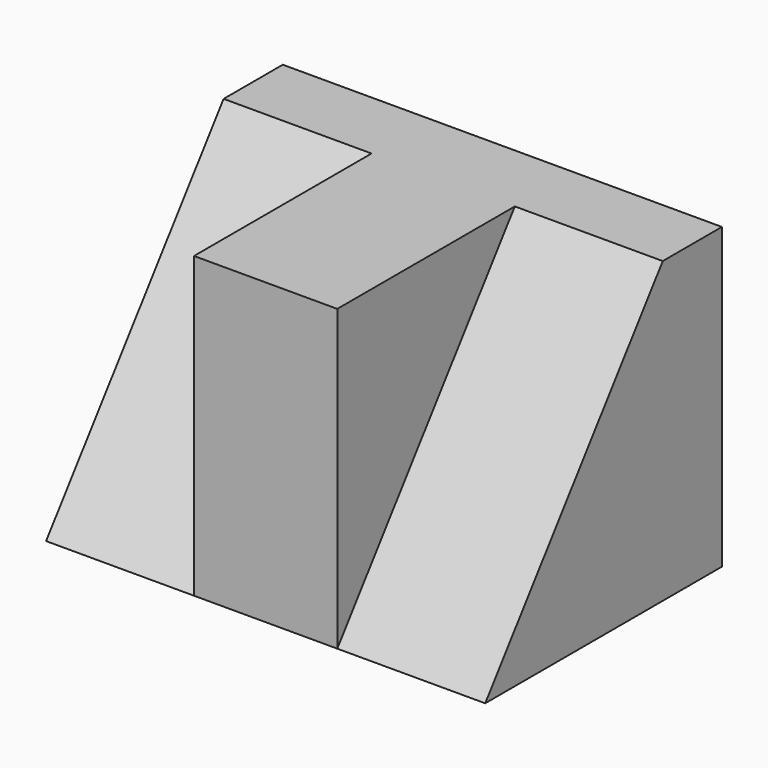
from build123d import *

# Parameters (mm, degrees)
F0_W     = 150.792748
F0_H     = 102.713902
F1_DEPTH = 76.2
F3_DEPTH = 50.8
F5_DEPTH = 50.8
F7_DEPTH = 25.4


with BuildPart() as f1:
    # F0 (on Front) → F1 (new body)
    with BuildSketch(Plane.XZ):
        with Locations((-0.485644, 4.735036)):
            Rectangle(F0_W, F0_H)
    extrude(amount=F1_DEPTH)

    # F2 (on face) → F3 (cut)
    with BuildSketch(Plane.YZ.offset(74.91073)):
        Polygon((-76.2, 56.091987), (-76.2, -46.621915), (0, 56.091987), align=None)
    extrude(amount=-F3_DEPTH, mode=Mode.SUBTRACT)

    # F4 (on face) → F5 (cut)
    with BuildSketch(Plane(origin=(-75.882018, 0, 0), x_dir=(0, -1, 0), z_dir=(-1, 0, 0))):
        Polygon((76.2, 56.091987), (0, 56.091987), (76.2, -46.621915), align=None)
    extrude(amount=-F5_DEPTH, mode=Mode.SUBTRACT)

    # F6 (on face) → F7 (join)
    with BuildSketch(Plane(origin=(0, 0, 0), x_dir=(-1, 0, 0), z_dir=(0, 1, 0))):
        Polygon((-24.11073, 56.091987), (-74.91073, 56.091987), (-74.91073, -46.621915), (75.882018, -46.621915), (75.882018, 56.091987), (25.082018, 56.091987), align=None)
    extrude(amount=F7_DEPTH)


solid = f1.part
